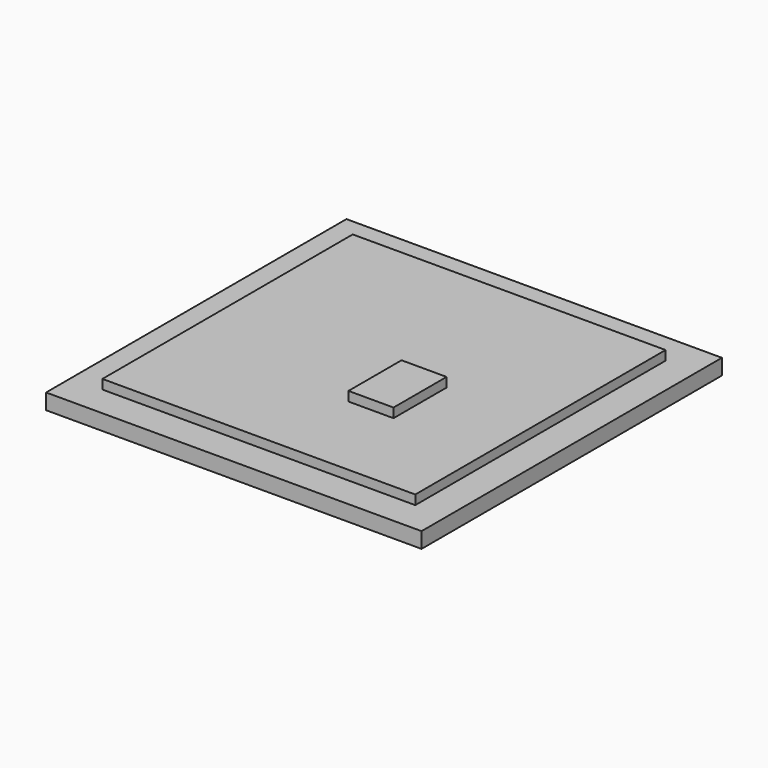
from build123d import *

# Parameters (mm, degrees)
F0_W     = 10
F0_H     = 0.3
F1_DEPTH = 5
F2_W     = 1.44
F2_H     = 0.3
F3_DEPTH = 2.12
F4_W     = 12
F4_H     = 0.5
F5_DEPTH = 6


with BuildPart() as f1:
    # F0 (on Front) → F1 (new body, symmetric)
    with BuildSketch(Plane.XZ):
        with Locations((0, -0.15)):
            Rectangle(F0_W, F0_H)
    extrude(amount=F1_DEPTH, both=True)


with BuildPart() as f3:
    # F2 (on Front) → F3 (new body)
    with BuildSketch(Plane.XZ):
        with Locations((1.28, 0.15)):
            Rectangle(F2_W, F2_H)
    extrude(amount=F3_DEPTH)


with BuildPart() as f5:
    # F4 (on Front) → F5 (new body, symmetric)
    with BuildSketch(Plane.XZ):
        with Locations((0, -0.55)):
            Rectangle(F4_W, F4_H)
    extrude(amount=F5_DEPTH, both=True)


solid = Compound([f1.part, f3.part, f5.part])
